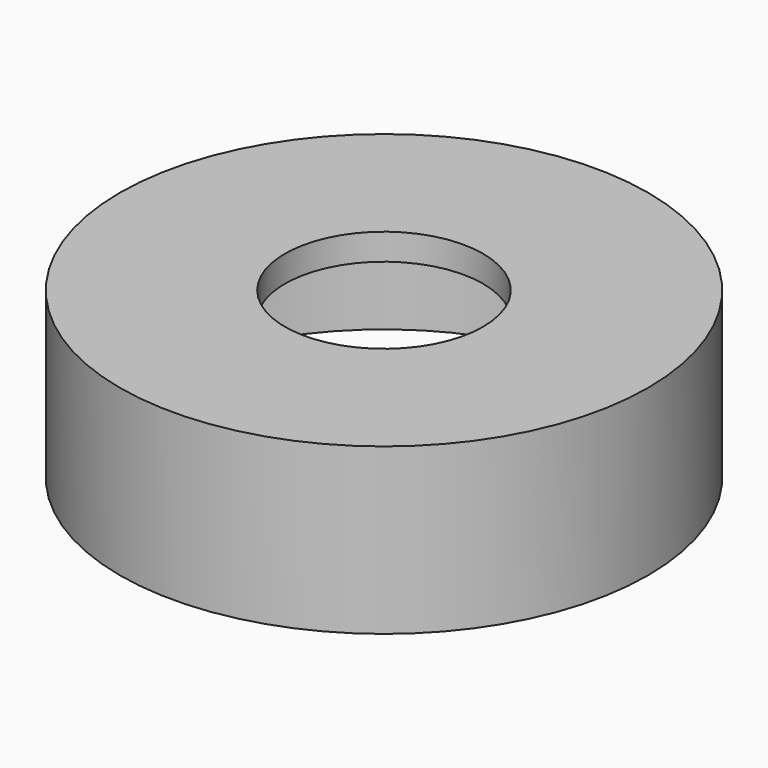
from build123d import *

# Parameters (mm, degrees)
CYLINDER004_R     = 1.5
CYLINDER004_DEPTH = 3
CYLINDER003_R     = 3.8
CYLINDER003_DEPTH = 2.1
CYLINDER002_R     = 4
CYLINDER002_DEPTH = 2.5


with BuildPart() as cylinder004:
    # Cylinder004 → Cylinder004 (new body)
    with BuildSketch(Plane.XY):
        Circle(CYLINDER004_R)
    extrude(amount=CYLINDER004_DEPTH)


with BuildPart() as fusion:
    # Cylinder003 → Cylinder003 (new body)
    with BuildSketch(Plane.XY):
        Circle(CYLINDER003_R)
    extrude(amount=CYLINDER003_DEPTH)

    # Fusion: union Cylinder004
    add(cylinder004.part)


with BuildPart() as cut001:
    # Cylinder002 → Cylinder002 (new body)
    with BuildSketch(Plane.XY):
        Circle(CYLINDER002_R)
    extrude(amount=CYLINDER002_DEPTH)

    # Cut001: cut Fusion
    add(fusion.part, mode=Mode.SUBTRACT)


solid = cut001.part
